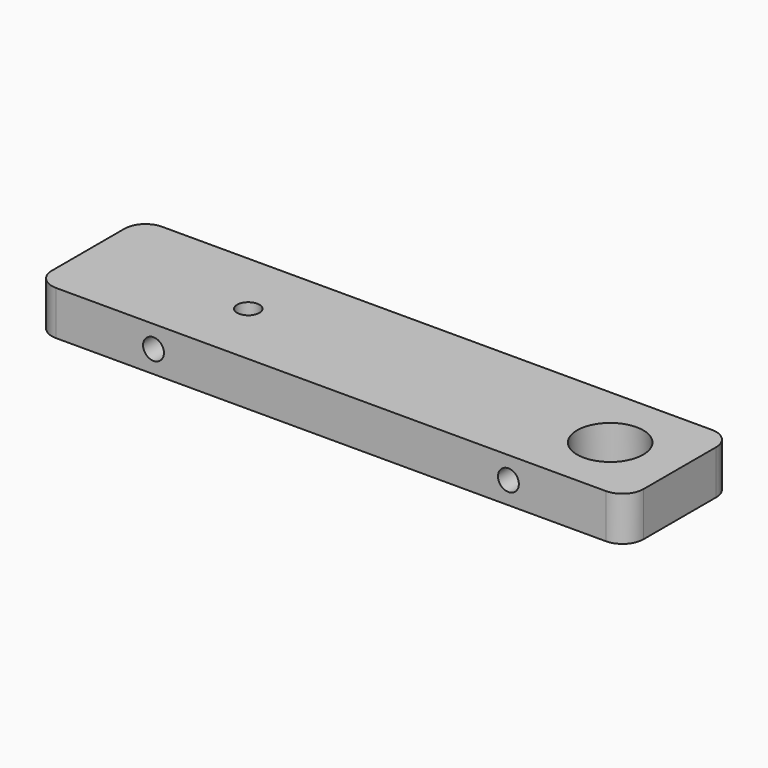
from build123d import *

# Parameters (mm, degrees)
F0_W     = 85
F0_H     = 19.05
F1_DEPTH = 6.35
F2_R     = 1.5
F3_DEPTH = 5
F4_DEPTH = 5
F5_R     = 3
F6_R     = 3
F7_R     = 3
F8_R     = 1.6
F8_R_2   = 4.75
F9_DEPTH = 25


with BuildPart() as f1:
    # F0 (on Top) → F1 (new body)
    with BuildSketch(Plane.XY):
        Rectangle(F0_W, F0_H)
    extrude(amount=F1_DEPTH)

    # F2 (on face) → F3 (cut)
    with BuildSketch(Plane.XZ.offset(9.525)):
        with Locations((-25.5, 3.175)):
            Circle(F2_R)
    extrude(amount=-F3_DEPTH, mode=Mode.SUBTRACT)

    # F2 (on face) → F4 (cut)
    with BuildSketch(Plane.XZ.offset(9.525)):
        with Locations((25.5, 3.175)):
            Circle(F2_R)
    extrude(amount=-F4_DEPTH, mode=Mode.SUBTRACT)

    # F5
    f5_edges = [f1.edges().sort_by_distance(p)[0] for p in [
        (-42.5, 9.525, 3.175),
    ]]
    fillet(f5_edges, radius=F5_R)

    # F6
    f6_edges = [f1.edges().sort_by_distance(p)[0] for p in [
        (-42.5, -9.525, 3.175),
    ]]
    fillet(f6_edges, radius=F6_R)

    # F7
    f7_edges = [f1.edges().sort_by_distance(p)[0] for p in [
        (42.5, 9.525, 3.175),
        (42.5, -9.525, 3.175),
    ]]
    fillet(f7_edges, radius=F7_R)

    # F8 (on face) → F9 (cut)
    with BuildSketch(Plane.XY.offset(6.35)):
        with Locations((-19.5, 0)):
            Circle(F8_R)
        with Locations((32.5, 0)):
            Circle(F8_R_2)
    extrude(amount=-F9_DEPTH, mode=Mode.SUBTRACT)


solid = f1.part
